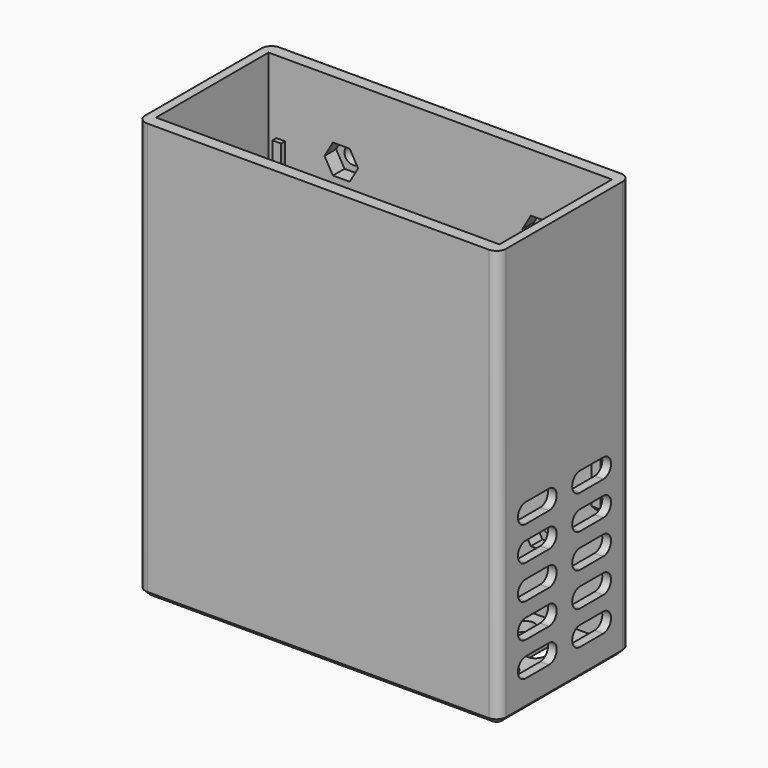
from build123d import *

# Parameters (mm, degrees)
SKETCH_W                           = 74.4
SKETCH_H                           = 34
PAD_DEPTH                          = 2
SKETCH001_W                        = 74.4
SKETCH001_H                        = 34
SKETCH001_W_2                      = 70.8
SKETCH001_H_2                      = 29
PAD001_DEPTH                       = 84
POCKET_DEPTH                       = 2
SKETCH003_R                        = 4.5
PAD002_DEPTH                       = 10
SKETCH004_R                        = 1.75
POCKET001_DEPTH                    = 12.501
POCKET002_DEPTH                    = 3
POCKET003_DEPTH                    = 2
POCKET003_LINEARPATTERN_2_DEPTH    = 2
POCKET003_LINEARPATTERN_3_DEPTH    = 2
POCKET003_LINEARPATTERN_4_DEPTH    = 2
POCKET003_LINEARPATTERN_5_DEPTH    = 2
LINEARPATTERN001_COUNT             = 5
LINEARPATTERN001_PITCH             = 7
POCKET004_DEPTH                    = 1.8
POCKET004_LINEARPATTERN002_2_DEPTH = 1.8
POCKET004_LINEARPATTERN002_3_DEPTH = 1.8
POCKET004_LINEARPATTERN002_4_DEPTH = 1.8
POCKET004_LINEARPATTERN002_5_DEPTH = 1.8
POCKET005_DEPTH                    = 1.8
POCKET005_LINEARPATTERN003_2_DEPTH = 1.8
POCKET005_LINEARPATTERN003_3_DEPTH = 1.8
POCKET005_LINEARPATTERN003_4_DEPTH = 1.8
POCKET005_LINEARPATTERN003_5_DEPTH = 1.8
SKETCH009_W                        = 1.8
SKETCH009_H                        = 45
PAD003_DEPTH                       = 1
SKETCH010_W                        = 1.8
SKETCH010_H                        = 45
PAD004_DEPTH                       = 1
PAD005_DEPTH                       = 1
CHAMFER_SIZE                       = 0.99
FILLET_R                           = 2
CHAMFER001_SIZE                    = 1
CHAMFER002_SIZE                    = 1
CHAMFER003_SIZE                    = 1


with BuildPart() as part:
    # Sketch → Pad (new body)
    with BuildSketch(Plane.XY):
        Rectangle(SKETCH_W, SKETCH_H)
    extrude(amount=PAD_DEPTH)

    # Sketch001 (on Face6 of Pad) → Pad001 (join)
    with BuildSketch(Plane.XY.offset(2)):
        Rectangle(SKETCH001_W, SKETCH001_H)
        Rectangle(SKETCH001_W_2, SKETCH001_H_2, mode=Mode.SUBTRACT)
    extrude(amount=PAD001_DEPTH)

    # Sketch002 (on Face8 of Pad001) → Pocket (cut)
    with BuildSketch(Plane(origin=(0, 0, 0), x_dir=(1, 0, 0), z_dir=(0, 0, -1))):
        with BuildLine():
            ThreePointArc((-25.9, 10.5), (-30.9, 5.5), (-25.9, 0.5))
            Line((-25.9, 0.5), (25.9, 0.5))
            ThreePointArc((25.9, 0.5), (30.9, 5.5), (25.9, 10.5))
            Line((-25.9, 10.5), (25.9, 10.5))
        make_face()
    extrude(amount=-POCKET_DEPTH, mode=Mode.SUBTRACT)

    # Sketch003 (on Face2 of Pocket) → Pad002 (join)
    with BuildSketch(Plane(origin=(0, 17, 0), x_dir=(-1, 0, 0), z_dir=(0, 1, 0))):
        with Locations((20.4, 71)):
            Circle(SKETCH003_R)
        with Locations((20.4, 17)):
            Circle(SKETCH003_R)
        with Locations((-20.4, 71)):
            Circle(SKETCH003_R)
        with Locations((-20.4, 17)):
            Circle(SKETCH003_R)
    extrude(amount=PAD002_DEPTH)

    # Sketch004 (on Face9 of Pad002) → Pocket001 (cut, through all)
    with BuildSketch(Plane.XZ.offset(-14.5)):
        with Locations((-20.4, 71)):
            Circle(SKETCH004_R)
        with Locations((20.4, 71)):
            Circle(SKETCH004_R)
        with Locations((20.4, 17)):
            Circle(SKETCH004_R)
        with Locations((-20.4, 17)):
            Circle(SKETCH004_R)
    extrude(amount=-POCKET001_DEPTH, mode=Mode.SUBTRACT)

    # Sketch005 (on Face9 of Pocket001) → Pocket002 (cut)
    with BuildSketch(Plane.XZ.offset(-14.5)):
        Polygon((-18.667949, 68), (-16.935898, 71), (-18.667949, 74), (-22.132051, 74), (-23.864102, 71), (-22.132051, 68), align=None)
        Polygon((22.132051, 68), (23.864102, 71), (22.132051, 74), (18.667949, 74), (16.935898, 71), (18.667949, 68), align=None)
        Polygon((-18.667949, 14), (-16.935898, 17), (-18.667949, 20), (-22.132051, 20), (-23.864102, 17), (-22.132051, 14), align=None)
        Polygon((22.132051, 14), (23.864102, 17), (22.132051, 20), (18.667949, 20), (16.935898, 17), (18.667949, 14), align=None)
    extrude(amount=-POCKET002_DEPTH, mode=Mode.SUBTRACT)

    # Sketch006 (on Face10 of Pocket002) → Pocket003 (cut)
    with BuildSketch(Plane(origin=(0, 0, 0), x_dir=(1, 0, 0), z_dir=(0, 0, -1))):
        with BuildLine():
            ThreePointArc((2, -4), (0, -2), (-2, -4))
            Line((-2, -4), (-2, -10))
            ThreePointArc((-2, -10), (0, -12), (2, -10))
            Line((2, -4), (2, -10))
        make_face()
    pocket003 = extrude(amount=-POCKET003_DEPTH, mode=Mode.SUBTRACT)

    # Sketch006 LinearPattern 2 → Pocket003 LinearPattern 2 (cut)
    with BuildSketch(Plane(origin=(7, 0, 0), x_dir=(1, 0, 0), z_dir=(0, 0, -1))):
        with BuildLine():
            ThreePointArc((2, -4), (0, -2), (-2, -4))
            Line((-2, -4), (-2, -10))
            ThreePointArc((-2, -10), (0, -12), (2, -10))
            Line((2, -4), (2, -10))
        make_face()
    pocket003_linearpattern_2 = extrude(amount=-POCKET003_LINEARPATTERN_2_DEPTH, mode=Mode.SUBTRACT)

    # Sketch006 LinearPattern 3 → Pocket003 LinearPattern 3 (cut)
    with BuildSketch(Plane(origin=(14, 0, 0), x_dir=(1, 0, 0), z_dir=(0, 0, -1))):
        with BuildLine():
            ThreePointArc((2, -4), (0, -2), (-2, -4))
            Line((-2, -4), (-2, -10))
            ThreePointArc((-2, -10), (0, -12), (2, -10))
            Line((2, -4), (2, -10))
        make_face()
    pocket003_linearpattern_3 = extrude(amount=-POCKET003_LINEARPATTERN_3_DEPTH, mode=Mode.SUBTRACT)

    # Sketch006 LinearPattern 4 → Pocket003 LinearPattern 4 (cut)
    with BuildSketch(Plane(origin=(21, 0, 0), x_dir=(1, 0, 0), z_dir=(0, 0, -1))):
        with BuildLine():
            ThreePointArc((2, -4), (0, -2), (-2, -4))
            Line((-2, -4), (-2, -10))
            ThreePointArc((-2, -10), (0, -12), (2, -10))
            Line((2, -4), (2, -10))
        make_face()
    pocket003_linearpattern_4 = extrude(amount=-POCKET003_LINEARPATTERN_4_DEPTH, mode=Mode.SUBTRACT)

    # Sketch006 LinearPattern 5 → Pocket003 LinearPattern 5 (cut)
    with BuildSketch(Plane(origin=(28, 0, 0), x_dir=(1, 0, 0), z_dir=(0, 0, -1))):
        with BuildLine():
            ThreePointArc((2, -4), (0, -2), (-2, -4))
            Line((-2, -4), (-2, -10))
            ThreePointArc((-2, -10), (0, -12), (2, -10))
            Line((2, -4), (2, -10))
        make_face()
    pocket003_linearpattern_5 = extrude(amount=-POCKET003_LINEARPATTERN_5_DEPTH, mode=Mode.SUBTRACT)

    # LinearPattern001: Pocket003, Pocket003 LinearPattern 2, Pocket003 LinearPattern 3, Pocket003 LinearPattern 4, Pocket003 LinearPattern 5 ×5
    with Locations(*[(-i * LINEARPATTERN001_PITCH, 0, 0) for i in range(1, LINEARPATTERN001_COUNT)]):
        add(pocket003, mode=Mode.SUBTRACT)
        add(pocket003_linearpattern_2, mode=Mode.SUBTRACT)
        add(pocket003_linearpattern_3, mode=Mode.SUBTRACT)
        add(pocket003_linearpattern_4, mode=Mode.SUBTRACT)
        add(pocket003_linearpattern_5, mode=Mode.SUBTRACT)

    # Sketch007 (on Face5 of MultiTransform) → Pocket004 (cut)
    with BuildSketch(Plane(origin=(-37.2, 0, 0), x_dir=(0, -1, 0), z_dir=(-1, 0, 0))):
        with BuildLine():
            ThreePointArc((4, 10), (2, 8), (4, 6))
            Line((4, 6), (10, 6))
            ThreePointArc((10, 6), (12, 8), (10, 10))
            Line((4, 10), (10, 10))
        make_face()
    pocket004 = extrude(amount=-POCKET004_DEPTH, mode=Mode.SUBTRACT)

    # Sketch007 LinearPattern002 2 → Pocket004 LinearPattern002 2 (cut)
    with BuildSketch(Plane(origin=(-37.2, 0, 7), x_dir=(0, -1, 0), z_dir=(-1, 0, 0))):
        with BuildLine():
            ThreePointArc((4, 10), (2, 8), (4, 6))
            Line((4, 6), (10, 6))
            ThreePointArc((10, 6), (12, 8), (10, 10))
            Line((4, 10), (10, 10))
        make_face()
    pocket004_linearpattern002_2 = extrude(amount=-POCKET004_LINEARPATTERN002_2_DEPTH, mode=Mode.SUBTRACT)

    # Sketch007 LinearPattern002 3 → Pocket004 LinearPattern002 3 (cut)
    with BuildSketch(Plane(origin=(-37.2, 0, 14), x_dir=(0, -1, 0), z_dir=(-1, 0, 0))):
        with BuildLine():
            ThreePointArc((4, 10), (2, 8), (4, 6))
            Line((4, 6), (10, 6))
            ThreePointArc((10, 6), (12, 8), (10, 10))
            Line((4, 10), (10, 10))
        make_face()
    pocket004_linearpattern002_3 = extrude(amount=-POCKET004_LINEARPATTERN002_3_DEPTH, mode=Mode.SUBTRACT)

    # Sketch007 LinearPattern002 4 → Pocket004 LinearPattern002 4 (cut)
    with BuildSketch(Plane(origin=(-37.2, 0, 21), x_dir=(0, -1, 0), z_dir=(-1, 0, 0))):
        with BuildLine():
            ThreePointArc((4, 10), (2, 8), (4, 6))
            Line((4, 6), (10, 6))
            ThreePointArc((10, 6), (12, 8), (10, 10))
            Line((4, 10), (10, 10))
        make_face()
    pocket004_linearpattern002_4 = extrude(amount=-POCKET004_LINEARPATTERN002_4_DEPTH, mode=Mode.SUBTRACT)

    # Sketch007 LinearPattern002 5 → Pocket004 LinearPattern002 5 (cut)
    with BuildSketch(Plane(origin=(-37.2, 0, 28), x_dir=(0, -1, 0), z_dir=(-1, 0, 0))):
        with BuildLine():
            ThreePointArc((4, 10), (2, 8), (4, 6))
            Line((4, 6), (10, 6))
            ThreePointArc((10, 6), (12, 8), (10, 10))
            Line((4, 10), (10, 10))
        make_face()
    pocket004_linearpattern002_5 = extrude(amount=-POCKET004_LINEARPATTERN002_5_DEPTH, mode=Mode.SUBTRACT)

    # Mirrored: Pocket004, Pocket004 LinearPattern002 2, Pocket004 LinearPattern002 3, Pocket004 LinearPattern002 4, Pocket004 LinearPattern002 5 across Sketch007 V_Axis
    add(pocket004.mirror(Plane(origin=(-37.2, 0, 0), x_dir=(-1, 0, 0), z_dir=(0, -1, 0))), mode=Mode.SUBTRACT)
    add(pocket004_linearpattern002_2.mirror(Plane(origin=(-37.2, 0, 0), x_dir=(-1, 0, 0), z_dir=(0, -1, 0))), mode=Mode.SUBTRACT)
    add(pocket004_linearpattern002_3.mirror(Plane(origin=(-37.2, 0, 0), x_dir=(-1, 0, 0), z_dir=(0, -1, 0))), mode=Mode.SUBTRACT)
    add(pocket004_linearpattern002_4.mirror(Plane(origin=(-37.2, 0, 0), x_dir=(-1, 0, 0), z_dir=(0, -1, 0))), mode=Mode.SUBTRACT)
    add(pocket004_linearpattern002_5.mirror(Plane(origin=(-37.2, 0, 0), x_dir=(-1, 0, 0), z_dir=(0, -1, 0))), mode=Mode.SUBTRACT)

    # Sketch008 (on Face3 of MultiTransform001) → Pocket005 (cut)
    with BuildSketch(Plane.YZ.offset(37.2)):
        with BuildLine():
            ThreePointArc((4, 10), (2, 8), (4, 6))
            Line((4, 6), (10, 6))
            ThreePointArc((10, 6), (12, 8), (10, 10))
            Line((4, 10), (10, 10))
        make_face()
    pocket005 = extrude(amount=-POCKET005_DEPTH, mode=Mode.SUBTRACT)

    # Sketch008 LinearPattern003 2 → Pocket005 LinearPattern003 2 (cut)
    with BuildSketch(Plane(origin=(37.2, 0, 7), x_dir=(0, 1, 0), z_dir=(1, 0, 0))):
        with BuildLine():
            ThreePointArc((4, 10), (2, 8), (4, 6))
            Line((4, 6), (10, 6))
            ThreePointArc((10, 6), (12, 8), (10, 10))
            Line((4, 10), (10, 10))
        make_face()
    pocket005_linearpattern003_2 = extrude(amount=-POCKET005_LINEARPATTERN003_2_DEPTH, mode=Mode.SUBTRACT)

    # Sketch008 LinearPattern003 3 → Pocket005 LinearPattern003 3 (cut)
    with BuildSketch(Plane(origin=(37.2, 0, 14), x_dir=(0, 1, 0), z_dir=(1, 0, 0))):
        with BuildLine():
            ThreePointArc((4, 10), (2, 8), (4, 6))
            Line((4, 6), (10, 6))
            ThreePointArc((10, 6), (12, 8), (10, 10))
            Line((4, 10), (10, 10))
        make_face()
    pocket005_linearpattern003_3 = extrude(amount=-POCKET005_LINEARPATTERN003_3_DEPTH, mode=Mode.SUBTRACT)

    # Sketch008 LinearPattern003 4 → Pocket005 LinearPattern003 4 (cut)
    with BuildSketch(Plane(origin=(37.2, 0, 21), x_dir=(0, 1, 0), z_dir=(1, 0, 0))):
        with BuildLine():
            ThreePointArc((4, 10), (2, 8), (4, 6))
            Line((4, 6), (10, 6))
            ThreePointArc((10, 6), (12, 8), (10, 10))
            Line((4, 10), (10, 10))
        make_face()
    pocket005_linearpattern003_4 = extrude(amount=-POCKET005_LINEARPATTERN003_4_DEPTH, mode=Mode.SUBTRACT)

    # Sketch008 LinearPattern003 5 → Pocket005 LinearPattern003 5 (cut)
    with BuildSketch(Plane(origin=(37.2, 0, 28), x_dir=(0, 1, 0), z_dir=(1, 0, 0))):
        with BuildLine():
            ThreePointArc((4, 10), (2, 8), (4, 6))
            Line((4, 6), (10, 6))
            ThreePointArc((10, 6), (12, 8), (10, 10))
            Line((4, 10), (10, 10))
        make_face()
    pocket005_linearpattern003_5 = extrude(amount=-POCKET005_LINEARPATTERN003_5_DEPTH, mode=Mode.SUBTRACT)

    # Mirrored001: Pocket005, Pocket005 LinearPattern003 2, Pocket005 LinearPattern003 3, Pocket005 LinearPattern003 4, Pocket005 LinearPattern003 5 across Sketch008 V_Axis
    add(pocket005.mirror(Plane(origin=(37.2, 0, 0), x_dir=(1, 0, 0), z_dir=(0, 1, 0))), mode=Mode.SUBTRACT)
    add(pocket005_linearpattern003_2.mirror(Plane(origin=(37.2, 0, 0), x_dir=(1, 0, 0), z_dir=(0, 1, 0))), mode=Mode.SUBTRACT)
    add(pocket005_linearpattern003_3.mirror(Plane(origin=(37.2, 0, 0), x_dir=(1, 0, 0), z_dir=(0, 1, 0))), mode=Mode.SUBTRACT)
    add(pocket005_linearpattern003_4.mirror(Plane(origin=(37.2, 0, 0), x_dir=(1, 0, 0), z_dir=(0, 1, 0))), mode=Mode.SUBTRACT)
    add(pocket005_linearpattern003_5.mirror(Plane(origin=(37.2, 0, 0), x_dir=(1, 0, 0), z_dir=(0, 1, 0))), mode=Mode.SUBTRACT)

    # Sketch009 (on Face9 of MultiTransform002) → Pad003 (join)
    with BuildSketch(Plane.XZ.offset(-14.5)):
        with Locations((-32.9, 48.5)):
            Rectangle(SKETCH009_W, SKETCH009_H)
        with Locations((32.9, 48.5)):
            Rectangle(SKETCH009_W, SKETCH009_H)
    extrude(amount=PAD003_DEPTH)

    # Sketch010 (on Face7 of Pad003) → Pad004 (join)
    with BuildSketch(Plane(origin=(0, -14.5, 0), x_dir=(-1, 0, 0), z_dir=(0, 1, 0))):
        with Locations((-32.9, 48.5)):
            Rectangle(SKETCH010_W, SKETCH010_H)
        with Locations((32.9, 48.5)):
            Rectangle(SKETCH010_W, SKETCH010_H)
    extrude(amount=PAD004_DEPTH)

    # Sketch011 (on DatumPlane) → Pad005 (join, symmetric)
    with BuildSketch(Plane(origin=(20.4, 27, 71), x_dir=(0, 0, 1), z_dir=(1, 0, 0))):
        Polygon((-14.8, 10.5), (-5.3, 0), (-4.3, 0), (-4.3, 10.5), align=None)
        Polygon((-58.2, 11.011512), (-69.211512, 11.011512), (-59.2, 0), (-58.2, 0), align=None)
    pad005 = extrude(amount=PAD005_DEPTH, both=True)

    # Mirrored002: Pad005 across YZ
    add(pad005.mirror(Plane.YZ))

    # Chamfer
    chamfer_edges = [part.edges().sort_by_distance(p)[0] for p in [
        (32.9, 14.5, 26),
        (-32.9, 14.5, 26),
        (32.9, -14.5, 26),
        (-32.9, -14.5, 26),
    ]]
    chamfer(chamfer_edges, length=CHAMFER_SIZE)

    # Fillet
    fillet_edges = [part.edges().sort_by_distance(p)[0] for p in [
        (-37.2, -17, 43),
        (-37.2, 17, 43),
        (37.2, 17, 43),
        (37.2, -17, 43),
    ]]
    fillet(fillet_edges, radius=FILLET_R)

    # Chamfer001
    chamfer001_edges = [part.edges().sort_by_distance(p)[0] for p in [
        (0, 17, 0),
        (37.2, 0, 0),
        (0, -17, 0),
        (-37.2, 0, 0),
    ]]
    chamfer(chamfer001_edges, length=CHAMFER001_SIZE)

    # Chamfer002
    chamfer002_edges = [part.edges().sort_by_distance(p)[0] for p in [
        (-21.4, 22, 66.612518),
        (19.4, 22, 66.612518),
        (19.4, 22, 12.612518),
        (-21.4, 22, 12.612518),
    ]]
    chamfer(chamfer002_edges, length=CHAMFER002_SIZE)

    # Chamfer003
    chamfer003_edges = [part.edges().sort_by_distance(p)[0] for p in [
        (-19.4, 22, 66.612518),
        (21.4, 22, 66.612518),
        (21.4, 22, 12.612518),
        (-19.4, 22, 12.612518),
    ]]
    chamfer(chamfer003_edges, length=CHAMFER003_SIZE)


solid = part.part
